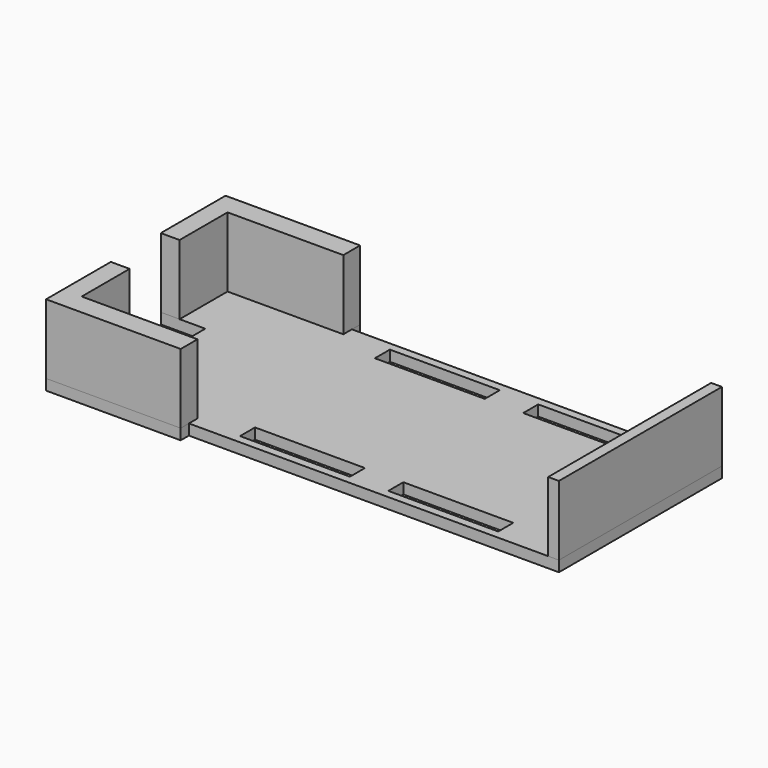
from build123d import *

# Parameters (mm, degrees)
F0_W     = 2
F0_H     = 38
F1_DEPTH = 15
F0_W_2   = 1.398183316
F0_H_2   = 11.1771705635
F0_W_3   = 20.5
F0_H_3   = 3.5
F2_DEPTH = 2


with BuildPart() as f1:
    # F0 (on Top) → F1 (new body)
    with BuildSketch(Plane.XY):
        with Locations((45, 0)):
            Rectangle(F0_W, F0_H)
    extrude(amount=F1_DEPTH)


with BuildPart() as f1b:
    # F0 (on Top) → F1, piece 2 (new body)
    with BuildSketch(Plane.XY):
        Polygon((-46, 17), (-46, 19), (-23.0085216463, 19), (-23.0085216463, 20.9154672921), (-46, 20.9154672921), (-48.1095127761, 20.9154672921), (-48.1095127761, 5.8228294365), (-46, 5.8228294365), align=None)
        Polygon((-23.0085216463, 19), (-46, 19), (-46, 17), (-44.601816684, 17), (-23.0085216463, 17), align=None)
        with Locations((-45.300908342, 11.4114147183)):
            Rectangle(F0_W_2, F0_H_2)
    extrude(amount=F1_DEPTH)


with BuildPart() as f1c:
    # F0 (on Top) → F1, piece 3 (new body)
    with BuildSketch(Plane.XY):
        Polygon((-23.0085216463, -20.9154672921), (-23.0085216463, -19), (-46, -19), (-46, -17), (-46, -5.8228294365), (-48.1095127761, -5.8228294365), (-48.1095127761, -20.9154672921), (-46, -20.9154672921), align=None)
        Polygon((-46, -19), (-23.0085216463, -19), (-23.0085216463, -17), (-44.601816684, -17), (-46, -17), align=None)
        with Locations((-45.300908342, -11.4114147183)):
            Rectangle(F0_W_2, F0_H_2)
    extrude(amount=F1_DEPTH)


with BuildPart() as f2:
    # F0 (on Top) → F2 (new body)
    with BuildSketch(Plane.XY):
        Polygon((-46, 17), (-46, 19), (-23.0085216463, 19), (-23.0085216463, 20.9154672921), (-46, 20.9154672921), (-48.1095127761, 20.9154672921), (-48.1095127761, 5.8228294365), (-46, 5.8228294365), align=None)
        Polygon((-23.0085216463, 19), (-46, 19), (-46, 17), (-44.601816684, 17), (-23.0085216463, 17), align=None)
        Polygon((44, 19), (-23.0085216463, 19), (-23.0085216463, 17), (-44.601816684, 17), (-44.601816684, 5.8228294365), (-39.8070141673, 5.8228294365), (-39.8070141673, -5.8228294365), (-44.601816684, -5.8228294365), (-44.601816684, -17), (-23.0085216463, -17), (-23.0085216463, -19), (44, -19), align=None)
        with Locations((-4.45, -15.7208904922)):
            Rectangle(F0_W_3, F0_H_3, mode=Mode.SUBTRACT)
        with Locations((23.21, -15.7208904922)):
            Rectangle(F0_W_3, F0_H_3, mode=Mode.SUBTRACT)
        with Locations((-4.45, 15.7208904922)):
            Rectangle(F0_W_3, F0_H_3, mode=Mode.SUBTRACT)
        with Locations((23.21, 15.7208904922)):
            Rectangle(F0_W_3, F0_H_3, mode=Mode.SUBTRACT)
        with Locations((-45.300908342, 11.4114147183)):
            Rectangle(F0_W_2, F0_H_2)
        with Locations((45, 0)):
            Rectangle(F0_W, F0_H)
        Polygon((-23.0085216463, -20.9154672921), (-23.0085216463, -19), (-46, -19), (-46, -17), (-46, -5.8228294365), (-48.1095127761, -5.8228294365), (-48.1095127761, -20.9154672921), (-46, -20.9154672921), align=None)
        Polygon((-46, -19), (-23.0085216463, -19), (-23.0085216463, -17), (-44.601816684, -17), (-46, -17), align=None)
        with Locations((-45.300908342, -11.4114147183)):
            Rectangle(F0_W_2, F0_H_2)
    extrude(amount=F2_DEPTH)


solid = Compound([f1.part, f1b.part, f1c.part, f2.part])
